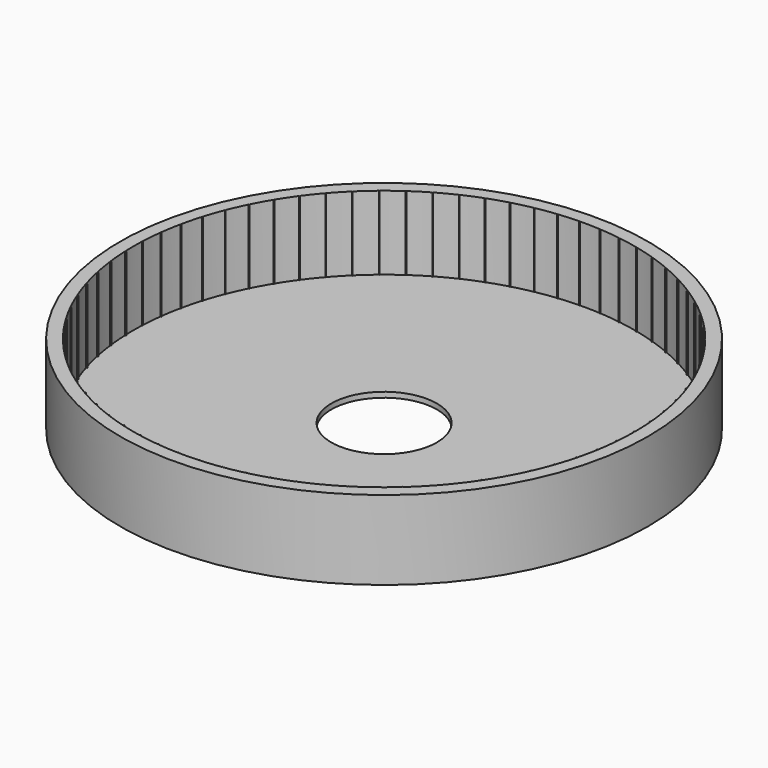
from build123d import *

# Parameters (mm, degrees)
F0_R     = 50
F1_DEPTH = 15
F0_R_2   = 10
F2_DEPTH = 1


with BuildPart() as f1:
    # F0 (on Top) → F1 (new body)
    with BuildSketch(Plane.XY):
        Circle(F0_R)
        with BuildLine():
            ThreePointArc((47.341674, 3.875039), (47.460402, 1.939136), (47.5, 0))
            ThreePointArc((47.5, 0), (47.499974, -0.05), (47.499895, -0.1))
            ThreePointArc((47.499895, -0.1), (47.456214, -2.039049), (47.333411, -3.974698))
            ThreePointArc((47.333411, -3.974698), (47.329201, -4.02452), (47.324938, -4.074338))
            ThreePointArc((47.324938, -4.074338), (47.119156, -6.002931), (46.834812, -7.921515))
            ThreePointArc((46.834812, -7.921515), (46.826447, -7.970811), (46.818031, -8.020098))
            ThreePointArc((46.818031, -8.020098), (46.45159, -9.924707), (46.0077, -11.81277))
            ThreePointArc((46.0077, -11.81277), (45.99524, -11.861192), (45.982729, -11.909602))
            ThreePointArc((45.982729, -11.909602), (45.458199, -13.776869), (44.857878, -15.621166))
            ThreePointArc((44.857878, -15.621166), (44.841409, -15.668376), (44.824892, -15.715569))
            ThreePointArc((44.824892, -15.715569), (44.145952, -17.532395), (43.393409, -19.319991))
            ThreePointArc((43.393409, -19.319991), (43.373048, -19.365657), (43.352639, -19.411302))
            ThreePointArc((43.352639, -19.411302), (42.524053, -21.164945), (41.624567, -22.8833))
            ThreePointArc((41.624567, -22.8833), (41.600457, -22.927102), (41.5763, -22.970879))
            ThreePointArc((41.5763, -22.970879), (40.603878, -24.649038), (39.563759, -26.286099))
            ThreePointArc((39.563759, -26.286099), (39.536067, -26.32773), (39.508332, -26.369332))
            ThreePointArc((39.508332, -26.369332), (38.398897, -27.960235), (37.225439, -29.50452))
            ThreePointArc((37.225439, -29.50452), (37.194361, -29.543688), (37.163242, -29.582824))
            ThreePointArc((37.163242, -29.582824), (35.924574, -31.075311), (34.62601, -32.515988))
            ThreePointArc((34.62601, -32.515988), (34.591763, -32.552418), (34.557478, -32.588812))
            ThreePointArc((34.557478, -32.588812), (33.198267, -33.972417), (31.783704, -35.299379))
            ThreePointArc((31.783704, -35.299379), (31.746529, -35.332816), (31.709319, -35.366214))
            ThreePointArc((31.709319, -35.366214), (30.239097, -36.63123), (28.718458, -37.835171))
            ThreePointArc((28.718458, -37.835171), (28.678616, -37.86538), (28.638741, -37.895547))
            ThreePointArc((28.638741, -37.895547), (27.067822, -39.033102), (25.451773, -40.105576))
            ThreePointArc((25.451773, -40.105576), (25.409542, -40.132346), (25.367284, -40.15907))
            ThreePointArc((25.367284, -40.15907), (23.706686, -41.161184), (22.006562, -42.09467))
            ThreePointArc((22.006562, -42.09467), (21.962239, -42.117812), (21.917893, -42.140906))
            ThreePointArc((21.917893, -42.140906), (20.179264, -43.00055), (18.40699, -43.7885))
            ThreePointArc((18.40699, -43.7885), (18.360887, -43.807851), (18.314763, -43.827154))
            ThreePointArc((18.314763, -43.827154), (16.510299, -44.538298), (14.678307, -45.175185))
            ThreePointArc((14.678307, -45.175185), (14.630746, -45.19061), (14.583169, -45.205986))
            ThreePointArc((14.583169, -45.205986), (12.725526, -45.763643), (10.846666, -46.244998))
            ThreePointArc((10.846666, -46.244998), (10.797981, -46.25639), (10.749284, -46.26773))
            ThreePointArc((10.749284, -46.26773), (8.851493, -46.667988), (6.938944, -46.990436))
            ThreePointArc((6.938944, -46.990436), (6.889476, -46.997714), (6.840001, -47.00494))
            ThreePointArc((6.840001, -47.00494), (4.915373, -47.24499), (2.98255, -47.40627))
            ThreePointArc((2.98255, -47.40627), (2.932647, -47.409383), (2.88274, -47.412444))
            ThreePointArc((2.88274, -47.412444), (0.944775, -47.490603), (-0.994765, -47.489582))
            ThreePointArc((-0.994765, -47.489582), (-1.044753, -47.488509), (-1.094741, -47.487383))
            ThreePointArc((-1.094741, -47.487383), (-3.032449, -47.403104), (-4.965102, -47.23979))
            ThreePointArc((-4.965102, -47.23979), (-5.014825, -47.234537), (-5.064543, -47.229232))
            ThreePointArc((-5.064543, -47.229232), (-6.988404, -46.983106), (-8.900612, -46.658644))
            ThreePointArc((-8.900612, -46.658644), (-8.949722, -46.649249), (-8.998821, -46.639803))
            ThreePointArc((-8.998821, -46.639803), (-10.895339, -46.233555), (-12.773691, -45.750222))
            ThreePointArc((-12.773691, -45.750222), (-12.821843, -45.736751), (-12.869979, -45.723229))
            ThreePointArc((-12.869979, -45.723229), (-14.725852, -45.159709), (-16.557172, -44.520895))
            ThreePointArc((-16.557172, -44.520895), (-16.604027, -44.503441), (-16.650864, -44.485939))
            ThreePointArc((-16.650864, -44.485939), (-18.453073, -43.7691), (-20.224516, -42.979285))
            ThreePointArc((-20.224516, -42.979285), (-20.269747, -42.957972), (-20.314954, -42.936612))
            ThreePointArc((-20.314954, -42.936612), (-22.05086, -42.071482), (-23.75, -41.136207))
            ThreePointArc((-23.75, -41.136207), (-23.793288, -41.111184), (-23.83655, -41.086116))
            ThreePointArc((-23.83655, -41.086116), (-25.493975, -40.078763), (-27.108894, -39.004587))
            ThreePointArc((-27.108894, -39.004587), (-27.149937, -38.97603), (-27.190949, -38.94743))
            ThreePointArc((-27.190949, -38.94743), (-28.758269, -37.80492), (-30.27764, -36.599379))
            ThreePointArc((-30.27764, -36.599379), (-30.316148, -36.567488), (-30.354624, -36.535556))
            ThreePointArc((-30.354624, -36.535556), (-31.820843, -35.265903), (-33.234009, -33.937452))
            ThreePointArc((-33.234009, -33.937452), (-33.269714, -33.90245), (-33.305382, -33.867411))
            ThreePointArc((-33.305382, -33.867411), (-34.660218, -32.479521), (-35.957265, -31.037479))
            ThreePointArc((-35.957265, -31.037479), (-35.989916, -30.999612), (-36.022528, -30.96171))
            ThreePointArc((-36.022528, -30.96171), (-37.256476, -29.465319), (-38.428307, -27.919799))
            ThreePointArc((-38.428307, -27.919799), (-38.457675, -27.879333), (-38.487001, -27.838836))
            ThreePointArc((-38.487001, -27.838836), (-39.591407, -26.244438), (-40.629802, -24.606283))
            ThreePointArc((-40.629802, -24.606283), (-40.655681, -24.563501), (-40.681515, -24.520692))
            ThreePointArc((-40.681515, -24.520692), (-41.648632, -22.839471), (-42.546309, -21.120171))
            ThreePointArc((-42.546309, -21.120171), (-42.568517, -21.075374), (-42.590678, -21.030553))
            ThreePointArc((-42.590678, -21.030553), (-43.413722, -19.274303), (-44.164383, -17.485916))
            ThreePointArc((-44.164383, -17.485916), (-44.182765, -17.439418), (-44.201098, -17.3929))
            ThreePointArc((-44.201098, -17.3929), (-44.874296, -15.573938), (-45.472676, -13.72901))
            ThreePointArc((-45.472676, -13.72901), (-45.487103, -13.681137), (-45.501479, -13.633248))
            ThreePointArc((-45.501479, -13.633248), (-46.020109, -11.764334), (-46.462011, -9.875805))
            ThreePointArc((-46.462011, -9.875805), (-46.472381, -9.826892), (-46.482699, -9.777969))
            ThreePointArc((-46.482699, -9.777969), (-46.843124, -7.872211), (-47.125448, -5.953329))
            ThreePointArc((-47.125448, -5.953329), (-47.131689, -5.90372), (-47.137877, -5.854104))
            ThreePointArc((-47.137877, -5.854104), (-47.337568, -3.924871), (-47.458334, -1.989094))
            ThreePointArc((-47.458334, -1.989094), (-47.460402, -1.939136), (-47.462417, -1.889177))
            ThreePointArc((-47.462417, -1.889177), (-47.499974, 0.05), (-47.458334, 1.989094))
            ThreePointArc((-47.458334, 1.989094), (-47.456214, 2.039049), (-47.454042, 2.089001))
            ThreePointArc((-47.454042, 2.089001), (-47.329201, 4.02452), (-47.125448, 5.953329))
            ThreePointArc((-47.125448, 5.953329), (-47.119156, 6.002931), (-47.112811, 6.052527))
            ThreePointArc((-47.112811, 6.052527), (-46.826447, 7.970811), (-46.462011, 9.875805))
            ThreePointArc((-46.462011, 9.875805), (-46.45159, 9.924707), (-46.441117, 9.973598))
            ThreePointArc((-46.441117, 9.973598), (-45.99524, 11.861192), (-45.472676, 13.72901))
            ThreePointArc((-45.472676, 13.72901), (-45.458199, 13.776869), (-45.443672, 13.824712))
            ThreePointArc((-45.443672, 13.824712), (-44.841409, 15.668376), (-44.164383, 17.485916))
            ThreePointArc((-44.164383, 17.485916), (-44.145952, 17.532395), (-44.127473, 17.578855))
            ThreePointArc((-44.127473, 17.578855), (-43.373048, 19.365657), (-42.546309, 21.120171))
            ThreePointArc((-42.546309, 21.120171), (-42.524053, 21.164945), (-42.501751, 21.209695))
            ThreePointArc((-42.501751, 21.209695), (-41.600457, 22.927102), (-40.629802, 24.606283))
            ThreePointArc((-40.629802, 24.606283), (-40.603878, 24.649038), (-40.57791, 24.691765))
            ThreePointArc((-40.57791, 24.691765), (-39.536067, 26.32773), (-38.428307, 27.919799))
            ThreePointArc((-38.428307, 27.919799), (-38.398897, 27.960235), (-38.369444, 28.000639))
            ThreePointArc((-38.369444, 28.000639), (-37.194361, 29.543688), (-35.957265, 31.037479))
            ThreePointArc((-35.957265, 31.037479), (-35.924574, 31.075311), (-35.891843, 31.113109))
            ThreePointArc((-35.891843, 31.113109), (-34.591763, 32.552418), (-33.234009, 33.937452))
            ThreePointArc((-33.234009, 33.937452), (-33.198267, 33.972417), (-33.162488, 34.007343))
            ThreePointArc((-33.162488, 34.007343), (-31.746529, 35.332816), (-30.27764, 36.599379))
            ThreePointArc((-30.27764, 36.599379), (-30.239097, 36.63123), (-30.200521, 36.66304))
            ThreePointArc((-30.200521, 36.66304), (-28.678616, 37.86538), (-27.108894, 39.004587))
            ThreePointArc((-27.108894, 39.004587), (-27.067822, 39.033102), (-27.026719, 39.061572))
            ThreePointArc((-27.026719, 39.061572), (-25.409542, 40.132346), (-23.75, 41.136207))
            ThreePointArc((-23.75, 41.136207), (-23.706686, 41.161184), (-23.663345, 41.186116))
            ThreePointArc((-23.663345, 41.186116), (-21.962239, 42.117812), (-20.224516, 42.979285))
            ThreePointArc((-20.224516, 42.979285), (-20.179264, 43.00055), (-20.133989, 43.021768))
            ThreePointArc((-20.133989, 43.021768), (-18.360887, 43.807851), (-16.557172, 44.520895))
            ThreePointArc((-16.557172, 44.520895), (-16.510299, 44.538298), (-16.463407, 44.555653))
            ThreePointArc((-16.463407, 44.555653), (-14.630746, 45.19061), (-12.773691, 45.750222))
            ThreePointArc((-12.773691, 45.750222), (-12.725526, 45.763643), (-12.677347, 45.777013))
            ThreePointArc((-12.677347, 45.777013), (-10.797981, 46.25639), (-8.900612, 46.658644))
            ThreePointArc((-8.900612, 46.658644), (-8.851493, 46.667988), (-8.802364, 46.677279))
            ThreePointArc((-8.802364, 46.677279), (-6.889476, 46.997714), (-4.965102, 47.23979))
            ThreePointArc((-4.965102, 47.23979), (-4.915373, 47.24499), (-4.865639, 47.250138))
            ThreePointArc((-4.865639, 47.250138), (-2.932647, 47.409383), (-0.994765, 47.489582))
            ThreePointArc((-0.994765, 47.489582), (-0.944775, 47.490603), (-0.894785, 47.491571))
            ThreePointArc((-0.894785, 47.491571), (1.044753, 47.488509), (2.98255, 47.40627))
            ThreePointArc((2.98255, 47.40627), (3.032449, 47.403104), (3.082346, 47.399885))
            ThreePointArc((3.082346, 47.399885), (5.014825, 47.234537), (6.938944, 46.990436))
            ThreePointArc((6.938944, 46.990436), (6.988404, 46.983106), (7.037856, 46.975723))
            ThreePointArc((7.037856, 46.975723), (8.949722, 46.649249), (10.846666, 46.244998))
            ThreePointArc((10.846666, 46.244998), (10.895339, 46.233555), (10.944, 46.22206))
            ThreePointArc((10.944, 46.22206), (12.821843, 45.736751), (14.678307, 45.175185))
            ThreePointArc((14.678307, 45.175185), (14.725852, 45.159709), (14.77338, 45.144183))
            ThreePointArc((14.77338, 45.144183), (16.604027, 44.503441), (18.40699, 43.7885))
            ThreePointArc((18.40699, 43.7885), (18.453073, 43.7691), (18.499136, 43.749651))
            ThreePointArc((18.499136, 43.749651), (20.269747, 42.957972), (22.006562, 42.09467))
            ThreePointArc((22.006562, 42.09467), (22.05086, 42.071482), (22.095133, 42.048247))
            ThreePointArc((22.095133, 42.048247), (23.793288, 41.111184), (25.451773, 40.105576))
            ThreePointArc((25.451773, 40.105576), (25.493975, 40.078763), (25.536149, 40.051905))
            ThreePointArc((25.536149, 40.051905), (27.149937, 38.97603), (28.718458, 37.835171))
            ThreePointArc((28.718458, 37.835171), (28.758269, 37.80492), (28.798047, 37.774627))
            ThreePointArc((28.798047, 37.774627), (30.316148, 36.567488), (31.783704, 35.299379))
            ThreePointArc((31.783704, 35.299379), (31.820843, 35.265903), (31.857948, 35.232388))
            ThreePointArc((31.857948, 35.232388), (33.269714, 33.90245), (34.62601, 32.515988))
            ThreePointArc((34.62601, 32.515988), (34.660218, 32.479521), (34.694388, 32.443019))
            ThreePointArc((34.694388, 32.443019), (35.989916, 30.999612), (37.225439, 29.50452))
            ThreePointArc((37.225439, 29.50452), (37.256476, 29.465319), (37.287472, 29.426085))
            ThreePointArc((37.287472, 29.426085), (38.457675, 27.879333), (39.563759, 26.286099))
            ThreePointArc((39.563759, 26.286099), (39.591407, 26.244438), (39.61901, 26.202748))
            ThreePointArc((39.61901, 26.202748), (40.655681, 24.563501), (41.624567, 22.8833))
            ThreePointArc((41.624567, 22.8833), (41.648632, 22.839471), (41.67265, 22.795618))
            ThreePointArc((41.67265, 22.795618), (42.568517, 21.075374), (43.393409, 19.319991))
            ThreePointArc((43.393409, 19.319991), (43.413722, 19.274303), (43.433987, 19.228593))
            ThreePointArc((43.433987, 19.228593), (44.182765, 17.439418), (44.857878, 15.621166))
            ThreePointArc((44.857878, 15.621166), (44.874296, 15.573938), (44.890665, 15.526693))
            ThreePointArc((44.890665, 15.526693), (45.487103, 13.681137), (46.0077, 11.81277))
            ThreePointArc((46.0077, 11.81277), (46.020109, 11.764334), (46.032467, 11.715885))
            ThreePointArc((46.032467, 11.715885), (46.472381, 9.826892), (46.834812, 7.921515))
            ThreePointArc((46.834812, 7.921515), (46.843124, 7.872211), (46.851385, 7.822898))
            ThreePointArc((46.851385, 7.822898), (47.131689, 5.90372), (47.333411, 3.974698))
            ThreePointArc((47.333411, 3.974698), (47.337568, 3.924871), (47.341674, 3.875039))
        make_face(mode=Mode.SUBTRACT)
        with BuildLine():
            ThreePointArc((-46.482699, -9.777969), (-46.472381, -9.826892), (-46.462011, -9.875805))
            Line((-46.462011, -9.875805), (-46.276777, -9.785316))
            Line((-46.276777, -9.785316), (-46.482699, -9.777969))
        make_face()
        with BuildLine():
            ThreePointArc((45.982729, -11.909602), (45.99524, -11.861192), (46.0077, -11.81277))
            Line((46.0077, -11.81277), (45.801549, -11.811461))
            Line((45.801549, -11.811461), (45.982729, -11.909602))
        make_face()
        with BuildLine():
            ThreePointArc((-40.681515, -24.520692), (-40.655681, -24.563501), (-40.629802, -24.606283))
            Line((-40.629802, -24.606283), (-40.484631, -24.459909))
            Line((-40.484631, -24.459909), (-40.681515, -24.520692))
        make_face()
        with BuildLine():
            Line((31.687035, 35.117294), (31.857948, 35.232388))
            ThreePointArc((31.857948, 35.232388), (31.820843, 35.265903), (31.783704, 35.299379))
            Line((31.783704, 35.299379), (31.687035, 35.117294))
        make_face()
        with BuildLine():
            Line((-26.953694, 38.868893), (-27.026719, 39.061572))
            ThreePointArc((-27.026719, 39.061572), (-27.067822, 39.033102), (-27.108894, 39.004587))
            Line((-27.108894, 39.004587), (-26.953694, 38.868893))
        make_face()
        with BuildLine():
            ThreePointArc((-1.094741, -47.487383), (-1.044753, -47.488509), (-0.994765, -47.489582))
            Line((-0.994765, -47.489582), (-1.040565, -47.288579))
            Line((-1.040565, -47.288579), (-1.094741, -47.487383))
        make_face()
        with BuildLine():
            Line((-47.256416, 2.030675), (-47.454042, 2.089001))
            ThreePointArc((-47.454042, 2.089001), (-47.456214, 2.039049), (-47.458334, 1.989094))
            Line((-47.458334, 1.989094), (-47.256416, 2.030675))
        make_face()
        with BuildLine():
            Line((-43.960022, 17.45878), (-44.127473, 17.578855))
            ThreePointArc((-44.127473, 17.578855), (-44.145952, 17.532395), (-44.164383, 17.485916))
            Line((-44.164383, 17.485916), (-43.960022, 17.45878))
        make_face()
        with BuildLine():
            ThreePointArc((-27.190949, -38.94743), (-27.149937, -38.97603), (-27.108894, -39.004587))
            Line((-27.108894, -39.004587), (-27.035809, -38.811822))
            Line((-27.035809, -38.811822), (-27.190949, -38.94743))
        make_face()
        with BuildLine():
            ThreePointArc((14.583169, -45.205986), (14.630746, -45.19061), (14.678307, -45.175185))
            Line((14.678307, -45.175185), (14.568951, -45.000424))
            Line((14.568951, -45.000424), (14.583169, -45.205986))
        make_face()
        with BuildLine():
            Line((-33.058352, 33.829541), (-33.162488, 34.007343))
            ThreePointArc((-33.162488, 34.007343), (-33.198267, 33.972417), (-33.234009, 33.937452))
            Line((-33.234009, 33.937452), (-33.058352, 33.829541))
        make_face()
        with BuildLine():
            Line((-16.440594, 44.350867), (-16.463407, 44.555653))
            ThreePointArc((-16.463407, 44.555653), (-16.510299, 44.538298), (-16.557172, 44.520895))
            Line((-16.557172, 44.520895), (-16.440594, 44.350867))
        make_face()
        with BuildLine():
            Line((45.826418, 11.714603), (46.032467, 11.715885))
            ThreePointArc((46.032467, 11.715885), (46.020109, 11.764334), (46.0077, 11.81277))
            Line((46.0077, 11.81277), (45.826418, 11.714603))
        make_face()
        with BuildLine():
            ThreePointArc((44.824892, -15.715569), (44.841409, -15.668376), (44.857878, -15.621166))
            Line((44.857878, -15.621166), (44.652559, -15.602611))
            Line((44.652559, -15.602611), (44.824892, -15.715569))
        make_face()
        with BuildLine():
            Line((-12.671749, 45.571035), (-12.677347, 45.777013))
            ThreePointArc((-12.677347, 45.777013), (-12.725526, 45.763643), (-12.773691, 45.750222))
            Line((-12.773691, 45.750222), (-12.671749, 45.571035))
        make_face()
        with BuildLine():
            Line((46.645951, 7.838862), (46.851385, 7.822898))
            ThreePointArc((46.851385, 7.822898), (46.843124, 7.872211), (46.834812, 7.921515))
            Line((46.834812, 7.921515), (46.645951, 7.838862))
        make_face()
        with BuildLine():
            Line((-20.094119, 42.819609), (-20.133989, 43.021768))
            ThreePointArc((-20.133989, 43.021768), (-20.179264, 43.00055), (-20.224516, 42.979285))
            Line((-20.224516, 42.979285), (-20.094119, 42.819609))
        make_face()
        with BuildLine():
            Line((47.138296, 3.908137), (47.341674, 3.875039))
            ThreePointArc((47.341674, 3.875039), (47.337568, 3.924871), (47.333411, 3.974698))
            Line((47.333411, 3.974698), (47.138296, 3.908137))
        make_face()
        with BuildLine():
            ThreePointArc((-5.064543, -47.229232), (-5.014825, -47.234537), (-4.965102, -47.23979))
            Line((-4.965102, -47.23979), (-4.993922, -47.035659))
            Line((-4.993922, -47.035659), (-5.064543, -47.229232))
        make_face()
        with BuildLine():
            ThreePointArc((31.709319, -35.366214), (31.746529, -35.332816), (31.783704, -35.299379))
            Line((31.783704, -35.299379), (31.61272, -35.184207))
            Line((31.61272, -35.184207), (31.709319, -35.366214))
        make_face()
        with BuildLine():
            Line((6.959191, 46.785277), (7.037856, 46.975723))
            ThreePointArc((7.037856, 46.975723), (6.988404, 46.983106), (6.938944, 46.990436))
            Line((6.938944, 46.990436), (6.959191, 46.785277))
        make_face()
        with BuildLine():
            Line((-40.432828, 24.545446), (-40.57791, 24.691765))
            ThreePointArc((-40.57791, 24.691765), (-40.603878, 24.649038), (-40.629802, 24.606283))
            Line((-40.629802, 24.606283), (-40.432828, 24.545446))
        make_face()
        with BuildLine():
            ThreePointArc((2.88274, -47.412444), (2.932647, -47.409383), (2.98255, -47.40627))
            Line((2.98255, -47.40627), (2.92009, -47.209804))
            Line((2.92009, -47.209804), (2.88274, -47.412444))
        make_face()
        with BuildLine():
            Line((-23.606699, 40.988002), (-23.663345, 41.186116))
            ThreePointArc((-23.663345, 41.186116), (-23.706686, 41.161184), (-23.75, 41.136207))
            Line((-23.75, 41.136207), (-23.606699, 40.988002))
        make_face()
        with BuildLine():
            ThreePointArc((47.324938, -4.074338), (47.329201, -4.02452), (47.333411, -3.974698))
            Line((47.333411, -3.974698), (47.129928, -4.007787))
            Line((47.129928, -4.007787), (47.324938, -4.074338))
        make_face()
        with BuildLine():
            ThreePointArc((25.367284, -40.15907), (25.409542, -40.132346), (25.451773, -40.105576))
            Line((25.451773, -40.105576), (25.302391, -39.963502))
            Line((25.302391, -39.963502), (25.367284, -40.15907))
        make_face()
        with BuildLine():
            ThreePointArc((-33.305382, -33.867411), (-33.269714, -33.90245), (-33.234009, -33.937452))
            Line((-33.234009, -33.937452), (-33.1298, -33.759575))
            Line((-33.1298, -33.759575), (-33.305382, -33.867411))
        make_face()
        with BuildLine():
            Line((-38.237115, 27.842693), (-38.369444, 28.000639))
            ThreePointArc((-38.369444, 28.000639), (-38.398897, 27.960235), (-38.428307, 27.919799))
            Line((-38.428307, 27.919799), (-38.237115, 27.842693))
        make_face()
        with BuildLine():
            Line((25.386824, 39.90992), (25.536149, 40.051905))
            ThreePointArc((25.536149, 40.051905), (25.493975, 40.078763), (25.451773, 40.105576))
            Line((25.451773, 40.105576), (25.386824, 39.90992))
        make_face()
        with BuildLine():
            Line((28.637365, 37.645635), (28.798047, 37.774627))
            ThreePointArc((28.798047, 37.774627), (28.758269, 37.80492), (28.718458, 37.835171))
            Line((28.718458, 37.835171), (28.637365, 37.645635))
        make_face()
        with BuildLine():
            Line((34.514443, 32.34263), (34.694388, 32.443019))
            ThreePointArc((34.694388, 32.443019), (34.660218, 32.479521), (34.62601, 32.515988))
            Line((34.62601, 32.515988), (34.514443, 32.34263))
        make_face()
        with BuildLine():
            ThreePointArc((21.917893, -42.140906), (21.962239, -42.117812), (22.006562, -42.09467))
            Line((22.006562, -42.09467), (21.869592, -41.940594))
            Line((21.869592, -41.940594), (21.917893, -42.140906))
        make_face()
        with BuildLine():
            Line((-46.255986, 9.88313), (-46.441117, 9.973598))
            ThreePointArc((-46.441117, 9.973598), (-46.45159, 9.924707), (-46.462011, 9.875805))
            Line((-46.462011, 9.875805), (-46.255986, 9.88313))
        make_face()
        with BuildLine():
            ThreePointArc((46.818031, -8.020098), (46.826447, -7.970811), (46.834812, -7.921515))
            Line((46.834812, -7.921515), (46.629274, -7.937462))
            Line((46.629274, -7.937462), (46.818031, -8.020098))
        make_face()
        with BuildLine():
            ThreePointArc((47.499895, -0.1), (47.499974, -0.05), (47.5, 0))
            Line((47.5, 0), (47.3, -0.05))
            Line((47.3, -0.05), (47.499895, -0.1))
        make_face()
        with BuildLine():
            ThreePointArc((-20.314954, -42.936612), (-20.269747, -42.957972), (-20.224516, -42.979285))
            Line((-20.224516, -42.979285), (-20.184602, -42.777031))
            Line((-20.184602, -42.777031), (-20.314954, -42.936612))
        make_face()
        with BuildLine():
            Line((18.37558, 43.584751), (18.499136, 43.749651))
            ThreePointArc((18.499136, 43.749651), (18.453073, 43.7691), (18.40699, 43.7885))
            Line((18.40699, 43.7885), (18.37558, 43.584751))
        make_face()
        with BuildLine():
            ThreePointArc((37.163242, -29.582824), (37.194361, -29.543688), (37.225439, -29.50452))
            Line((37.225439, -29.50452), (37.037643, -29.419475))
            Line((37.037643, -29.419475), (37.163242, -29.582824))
        make_face()
        with BuildLine():
            Line((21.958213, 41.894264), (22.095133, 42.048247))
            ThreePointArc((22.095133, 42.048247), (22.05086, 42.071482), (22.006562, 42.09467))
            Line((22.006562, 42.09467), (21.958213, 41.894264))
        make_face()
        with BuildLine():
            ThreePointArc((6.840001, -47.00494), (6.889476, -46.997714), (6.938944, -46.990436))
            Line((6.938944, -46.990436), (6.860264, -46.799886))
            Line((6.860264, -46.799886), (6.840001, -47.00494))
        make_face()
        with BuildLine():
            Line((41.473394, 22.743133), (41.67265, 22.795618))
            ThreePointArc((41.67265, 22.795618), (41.648632, 22.839471), (41.624567, 22.8833))
            Line((41.624567, 22.8833), (41.473394, 22.743133))
        make_face()
        with BuildLine():
            Line((-35.773195, 30.944644), (-35.891843, 31.113109))
            ThreePointArc((-35.891843, 31.113109), (-35.924574, 31.075311), (-35.957265, 31.037479))
            Line((-35.957265, 31.037479), (-35.773195, 30.944644))
        make_face()
        with BuildLine():
            Line((-30.111629, 36.477148), (-30.200521, 36.66304))
            ThreePointArc((-30.200521, 36.66304), (-30.239097, 36.63123), (-30.27764, 36.599379))
            Line((-30.27764, 36.599379), (-30.111629, 36.477148))
        make_face()
        with BuildLine():
            ThreePointArc((-42.590678, -21.030553), (-42.568517, -21.075374), (-42.546309, -21.120171))
            Line((-42.546309, -21.120171), (-42.389398, -20.986458))
            Line((-42.389398, -20.986458), (-42.590678, -21.030553))
        make_face()
        with BuildLine():
            ThreePointArc((10.749284, -46.26773), (10.797981, -46.25639), (10.846666, -46.244998))
            Line((10.846666, -46.244998), (10.752317, -46.0617))
            Line((10.752317, -46.0617), (10.749284, -46.26773))
        make_face()
        with BuildLine():
            Line((-42.344935, 21.07603), (-42.501751, 21.209695))
            ThreePointArc((-42.501751, 21.209695), (-42.524053, 21.164945), (-42.546309, 21.120171))
            Line((-42.546309, 21.120171), (-42.344935, 21.07603))
        make_face()
        with BuildLine():
            Line((39.424844, 26.133774), (39.61901, 26.202748))
            ThreePointArc((39.61901, 26.202748), (39.591407, 26.244438), (39.563759, 26.286099))
            Line((39.563759, 26.286099), (39.424844, 26.133774))
        make_face()
        with BuildLine():
            Line((37.099758, 29.341105), (37.287472, 29.426085))
            ThreePointArc((37.287472, 29.426085), (37.256476, 29.465319), (37.225439, 29.50452))
            Line((37.225439, 29.50452), (37.099758, 29.341105))
        make_face()
        with BuildLine():
            ThreePointArc((-30.354624, -36.535556), (-30.316148, -36.567488), (-30.27764, -36.599379))
            Line((-30.27764, -36.599379), (-30.18868, -36.413405))
            Line((-30.18868, -36.413405), (-30.354624, -36.535556))
        make_face()
        with BuildLine():
            ThreePointArc((-47.462417, -1.889177), (-47.460402, -1.939136), (-47.458334, -1.989094))
            Line((-47.458334, -1.989094), (-47.260604, -1.930762))
            Line((-47.260604, -1.930762), (-47.462417, -1.889177))
        make_face()
        with BuildLine():
            ThreePointArc((-47.137877, -5.854104), (-47.131689, -5.90372), (-47.125448, -5.953329))
            Line((-47.125448, -5.953329), (-46.933292, -5.878656))
            Line((-46.933292, -5.878656), (-47.137877, -5.854104))
        make_face()
        with BuildLine():
            Line((10.849675, 46.038865), (10.944, 46.22206))
            ThreePointArc((10.944, 46.22206), (10.895339, 46.233555), (10.846666, 46.244998))
            Line((10.846666, 46.244998), (10.849675, 46.038865))
        make_face()
        with BuildLine():
            Line((-0.940587, 47.290673), (-0.894785, 47.491571))
            ThreePointArc((-0.894785, 47.491571), (-0.944775, 47.490603), (-0.994765, 47.489582))
            Line((-0.994765, 47.489582), (-0.940587, 47.290673))
        make_face()
        with BuildLine():
            Line((14.664057, 44.969522), (14.77338, 45.144183))
            ThreePointArc((14.77338, 45.144183), (14.725852, 45.159709), (14.678307, 45.175185))
            Line((14.678307, 45.175185), (14.664057, 44.969522))
        make_face()
        with BuildLine():
            Line((3.019893, 47.203525), (3.082346, 47.399885))
            ThreePointArc((3.082346, 47.399885), (3.032449, 47.403104), (2.98255, 47.40627))
            Line((2.98255, 47.40627), (3.019893, 47.203525))
        make_face()
        with BuildLine():
            ThreePointArc((34.557478, -32.588812), (34.591763, -32.552418), (34.62601, -32.515988))
            Line((34.62601, -32.515988), (34.445989, -32.415527))
            Line((34.445989, -32.415527), (34.557478, -32.588812))
        make_face()
        with BuildLine():
            ThreePointArc((-23.83655, -41.086116), (-23.793288, -41.111184), (-23.75, -41.136207))
            Line((-23.75, -41.136207), (-23.693301, -40.938002))
            Line((-23.693301, -40.938002), (-23.83655, -41.086116))
        make_face()
        with BuildLine():
            Line((-45.266761, 13.71907), (-45.443672, 13.824712))
            ThreePointArc((-45.443672, 13.824712), (-45.458199, 13.776869), (-45.472676, 13.72901))
            Line((-45.472676, 13.72901), (-45.266761, 13.71907))
        make_face()
        with BuildLine():
            Line((-4.89447, 47.046112), (-4.865639, 47.250138))
            ThreePointArc((-4.865639, 47.250138), (-4.915373, 47.24499), (-4.965102, 47.23979))
            Line((-4.965102, 47.23979), (-4.89447, 47.046112))
        make_face()
        with BuildLine():
            ThreePointArc((39.508332, -26.369332), (39.536067, -26.32773), (39.563759, -26.286099))
            Line((39.563759, -26.286099), (39.369505, -26.217066))
            Line((39.369505, -26.217066), (39.508332, -26.369332))
        make_face()
        with BuildLine():
            ThreePointArc((-16.650864, -44.485939), (-16.604027, -44.503441), (-16.557172, -44.520895))
            Line((-16.557172, -44.520895), (-16.534322, -44.31601))
            Line((-16.534322, -44.31601), (-16.650864, -44.485939))
        make_face()
        with BuildLine():
            Line((-46.920759, 5.977868), (-47.112811, 6.052527))
            ThreePointArc((-47.112811, 6.052527), (-47.119156, 6.002931), (-47.125448, 5.953329))
            Line((-47.125448, 5.953329), (-46.920759, 5.977868))
        make_face()
        with BuildLine():
            ThreePointArc((43.352639, -19.411302), (43.373048, -19.365657), (43.393409, -19.319991))
            Line((43.393409, -19.319991), (43.190363, -19.28432))
            Line((43.190363, -19.28432), (43.352639, -19.411302))
        make_face()
        with BuildLine():
            Line((-8.814022, 46.471556), (-8.802364, 46.677279))
            ThreePointArc((-8.802364, 46.677279), (-8.851493, 46.667988), (-8.900612, 46.658644))
            Line((-8.900612, 46.658644), (-8.814022, 46.471556))
        make_face()
        with BuildLine():
            ThreePointArc((41.5763, -22.970879), (41.600457, -22.927102), (41.624567, -22.8833))
            Line((41.624567, -22.8833), (41.425218, -22.830764))
            Line((41.425218, -22.830764), (41.5763, -22.970879))
        make_face()
        with BuildLine():
            ThreePointArc((-12.869979, -45.723229), (-12.821843, -45.736751), (-12.773691, -45.750222))
            Line((-12.773691, -45.750222), (-12.768066, -45.544143))
            Line((-12.768066, -45.544143), (-12.869979, -45.723229))
        make_face()
        with BuildLine():
            ThreePointArc((-8.998821, -46.639803), (-8.949722, -46.649249), (-8.900612, -46.658644))
            Line((-8.900612, -46.658644), (-8.912251, -46.452818))
            Line((-8.912251, -46.452818), (-8.998821, -46.639803))
        make_face()
        with BuildLine():
            ThreePointArc((28.638741, -37.895547), (28.678616, -37.86538), (28.718458, -37.835171))
            Line((28.718458, -37.835171), (28.557712, -37.706095))
            Line((28.557712, -37.706095), (28.638741, -37.895547))
        make_face()
        with BuildLine():
            ThreePointArc((-36.022528, -30.96171), (-35.989916, -30.999612), (-35.957265, -31.037479))
            Line((-35.957265, -31.037479), (-35.838537, -30.868945))
            Line((-35.838537, -30.868945), (-36.022528, -30.96171))
        make_face()
        with BuildLine():
            ThreePointArc((-38.487001, -27.838836), (-38.457675, -27.879333), (-38.428307, -27.919799))
            Line((-38.428307, -27.919799), (-38.295893, -27.761792))
            Line((-38.295893, -27.761792), (-38.487001, -27.838836))
        make_face()
        with BuildLine():
            Line((43.231037, 19.192966), (43.433987, 19.228593))
            ThreePointArc((43.433987, 19.228593), (43.413722, 19.274303), (43.393409, 19.319991))
            Line((43.393409, 19.319991), (43.231037, 19.192966))
        make_face()
        with BuildLine():
            ThreePointArc((18.314763, -43.827154), (18.360887, -43.807851), (18.40699, -43.7885))
            Line((18.40699, -43.7885), (18.283394, -43.623503))
            Line((18.283394, -43.623503), (18.314763, -43.827154))
        make_face()
        with BuildLine():
            Line((44.685446, 15.508174), (44.890665, 15.526693))
            ThreePointArc((44.890665, 15.526693), (44.874296, 15.573938), (44.857878, 15.621166))
            Line((44.857878, 15.621166), (44.685446, 15.508174))
        make_face()
        with BuildLine():
            ThreePointArc((-45.501479, -13.633248), (-45.487103, -13.681137), (-45.472676, -13.72901))
            Line((-45.472676, -13.72901), (-45.295664, -13.623338))
            Line((-45.295664, -13.623338), (-45.501479, -13.633248))
        make_face()
        with BuildLine():
            ThreePointArc((-44.201098, -17.3929), (-44.182765, -17.439418), (-44.164383, -17.485916))
            Line((-44.164383, -17.485916), (-43.996834, -17.365803))
            Line((-43.996834, -17.365803), (-44.201098, -17.3929))
        make_face()
    extrude(amount=F1_DEPTH)

    # F0 (on Top) → F2 (join)
    with BuildSketch(Plane.XY):
        with BuildLine():
            Line((47.3, -0.05), (47.5, 0))
            ThreePointArc((47.5, 0), (47.460402, 1.939136), (47.341674, 3.875039))
            Line((47.341674, 3.875039), (47.138296, 3.908137))
            Line((47.138296, 3.908137), (47.333411, 3.974698))
            ThreePointArc((47.333411, 3.974698), (47.131689, 5.90372), (46.851385, 7.822898))
            Line((46.851385, 7.822898), (46.645951, 7.838862))
            Line((46.645951, 7.838862), (46.834812, 7.921515))
            ThreePointArc((46.834812, 7.921515), (46.472381, 9.826892), (46.032467, 11.715885))
            Line((46.032467, 11.715885), (45.826418, 11.714603))
            Line((45.826418, 11.714603), (46.0077, 11.81277))
            ThreePointArc((46.0077, 11.81277), (45.487103, 13.681137), (44.890665, 15.526693))
            Line((44.890665, 15.526693), (44.685446, 15.508174))
            Line((44.685446, 15.508174), (44.857878, 15.621166))
            ThreePointArc((44.857878, 15.621166), (44.182765, 17.439418), (43.433987, 19.228593))
            Line((43.433987, 19.228593), (43.231037, 19.192966))
            Line((43.231037, 19.192966), (43.393409, 19.319991))
            ThreePointArc((43.393409, 19.319991), (42.568517, 21.075374), (41.67265, 22.795618))
            Line((41.67265, 22.795618), (41.473394, 22.743133))
            Line((41.473394, 22.743133), (41.624567, 22.8833))
            ThreePointArc((41.624567, 22.8833), (40.655681, 24.563501), (39.61901, 26.202748))
            Line((39.61901, 26.202748), (39.424844, 26.133774))
            Line((39.424844, 26.133774), (39.563759, 26.286099))
            ThreePointArc((39.563759, 26.286099), (38.457675, 27.879333), (37.287472, 29.426085))
            Line((37.287472, 29.426085), (37.099758, 29.341105))
            Line((37.099758, 29.341105), (37.225439, 29.50452))
            ThreePointArc((37.225439, 29.50452), (35.989916, 30.999612), (34.694388, 32.443019))
            Line((34.694388, 32.443019), (34.514443, 32.34263))
            Line((34.514443, 32.34263), (34.62601, 32.515988))
            ThreePointArc((34.62601, 32.515988), (33.269714, 33.90245), (31.857948, 35.232388))
            Line((31.857948, 35.232388), (31.687035, 35.117294))
            Line((31.687035, 35.117294), (31.783704, 35.299379))
            ThreePointArc((31.783704, 35.299379), (30.316148, 36.567488), (28.798047, 37.774627))
            Line((28.798047, 37.774627), (28.637365, 37.645635))
            Line((28.637365, 37.645635), (28.718458, 37.835171))
            ThreePointArc((28.718458, 37.835171), (27.149937, 38.97603), (25.536149, 40.051905))
            Line((25.536149, 40.051905), (25.386824, 39.90992))
            Line((25.386824, 39.90992), (25.451773, 40.105576))
            ThreePointArc((25.451773, 40.105576), (23.793288, 41.111184), (22.095133, 42.048247))
            Line((22.095133, 42.048247), (21.958213, 41.894264))
            Line((21.958213, 41.894264), (22.006562, 42.09467))
            ThreePointArc((22.006562, 42.09467), (20.269747, 42.957972), (18.499136, 43.749651))
            Line((18.499136, 43.749651), (18.37558, 43.584751))
            Line((18.37558, 43.584751), (18.40699, 43.7885))
            ThreePointArc((18.40699, 43.7885), (16.604027, 44.503441), (14.77338, 45.144183))
            Line((14.77338, 45.144183), (14.664057, 44.969522))
            Line((14.664057, 44.969522), (14.678307, 45.175185))
            ThreePointArc((14.678307, 45.175185), (12.821843, 45.736751), (10.944, 46.22206))
            Line((10.944, 46.22206), (10.849675, 46.038865))
            Line((10.849675, 46.038865), (10.846666, 46.244998))
            ThreePointArc((10.846666, 46.244998), (8.949722, 46.649249), (7.037856, 46.975723))
            Line((7.037856, 46.975723), (6.959191, 46.785277))
            Line((6.959191, 46.785277), (6.938944, 46.990436))
            ThreePointArc((6.938944, 46.990436), (5.014825, 47.234537), (3.082346, 47.399885))
            Line((3.082346, 47.399885), (3.019893, 47.203525))
            Line((3.019893, 47.203525), (2.98255, 47.40627))
            ThreePointArc((2.98255, 47.40627), (1.044753, 47.488509), (-0.894785, 47.491571))
            Line((-0.894785, 47.491571), (-0.940587, 47.290673))
            Line((-0.940587, 47.290673), (-0.994765, 47.489582))
            ThreePointArc((-0.994765, 47.489582), (-2.932647, 47.409383), (-4.865639, 47.250138))
            Line((-4.865639, 47.250138), (-4.89447, 47.046112))
            Line((-4.89447, 47.046112), (-4.965102, 47.23979))
            ThreePointArc((-4.965102, 47.23979), (-6.889476, 46.997714), (-8.802364, 46.677279))
            Line((-8.802364, 46.677279), (-8.814022, 46.471556))
            Line((-8.814022, 46.471556), (-8.900612, 46.658644))
            ThreePointArc((-8.900612, 46.658644), (-10.797981, 46.25639), (-12.677347, 45.777013))
            Line((-12.677347, 45.777013), (-12.671749, 45.571035))
            Line((-12.671749, 45.571035), (-12.773691, 45.750222))
            ThreePointArc((-12.773691, 45.750222), (-14.630746, 45.19061), (-16.463407, 44.555653))
            Line((-16.463407, 44.555653), (-16.440594, 44.350867))
            Line((-16.440594, 44.350867), (-16.557172, 44.520895))
            ThreePointArc((-16.557172, 44.520895), (-18.360887, 43.807851), (-20.133989, 43.021768))
            Line((-20.133989, 43.021768), (-20.094119, 42.819609))
            Line((-20.094119, 42.819609), (-20.224516, 42.979285))
            ThreePointArc((-20.224516, 42.979285), (-21.962239, 42.117812), (-23.663345, 41.186116))
            Line((-23.663345, 41.186116), (-23.606699, 40.988002))
            Line((-23.606699, 40.988002), (-23.75, 41.136207))
            ThreePointArc((-23.75, 41.136207), (-25.409542, 40.132346), (-27.026719, 39.061572))
            Line((-27.026719, 39.061572), (-26.953694, 38.868893))
            Line((-26.953694, 38.868893), (-27.108894, 39.004587))
            ThreePointArc((-27.108894, 39.004587), (-28.678616, 37.86538), (-30.200521, 36.66304))
            Line((-30.200521, 36.66304), (-30.111629, 36.477148))
            Line((-30.111629, 36.477148), (-30.27764, 36.599379))
            ThreePointArc((-30.27764, 36.599379), (-31.746529, 35.332816), (-33.162488, 34.007343))
            Line((-33.162488, 34.007343), (-33.058352, 33.829541))
            Line((-33.058352, 33.829541), (-33.234009, 33.937452))
            ThreePointArc((-33.234009, 33.937452), (-34.591763, 32.552418), (-35.891843, 31.113109))
            Line((-35.891843, 31.113109), (-35.773195, 30.944644))
            Line((-35.773195, 30.944644), (-35.957265, 31.037479))
            ThreePointArc((-35.957265, 31.037479), (-37.194361, 29.543688), (-38.369444, 28.000639))
            Line((-38.369444, 28.000639), (-38.237115, 27.842693))
            Line((-38.237115, 27.842693), (-38.428307, 27.919799))
            ThreePointArc((-38.428307, 27.919799), (-39.536067, 26.32773), (-40.57791, 24.691765))
            Line((-40.57791, 24.691765), (-40.432828, 24.545446))
            Line((-40.432828, 24.545446), (-40.629802, 24.606283))
            ThreePointArc((-40.629802, 24.606283), (-41.600457, 22.927102), (-42.501751, 21.209695))
            Line((-42.501751, 21.209695), (-42.344935, 21.07603))
            Line((-42.344935, 21.07603), (-42.546309, 21.120171))
            ThreePointArc((-42.546309, 21.120171), (-43.373048, 19.365657), (-44.127473, 17.578855))
            Line((-44.127473, 17.578855), (-43.960022, 17.45878))
            Line((-43.960022, 17.45878), (-44.164383, 17.485916))
            ThreePointArc((-44.164383, 17.485916), (-44.841409, 15.668376), (-45.443672, 13.824712))
            Line((-45.443672, 13.824712), (-45.266761, 13.71907))
            Line((-45.266761, 13.71907), (-45.472676, 13.72901))
            ThreePointArc((-45.472676, 13.72901), (-45.99524, 11.861192), (-46.441117, 9.973598))
            Line((-46.441117, 9.973598), (-46.255986, 9.88313))
            Line((-46.255986, 9.88313), (-46.462011, 9.875805))
            ThreePointArc((-46.462011, 9.875805), (-46.826447, 7.970811), (-47.112811, 6.052527))
            Line((-47.112811, 6.052527), (-46.920759, 5.977868))
            Line((-46.920759, 5.977868), (-47.125448, 5.953329))
            ThreePointArc((-47.125448, 5.953329), (-47.329201, 4.02452), (-47.454042, 2.089001))
            Line((-47.454042, 2.089001), (-47.256416, 2.030675))
            Line((-47.256416, 2.030675), (-47.458334, 1.989094))
            ThreePointArc((-47.458334, 1.989094), (-47.499974, 0.05), (-47.462417, -1.889177))
            Line((-47.462417, -1.889177), (-47.260604, -1.930762))
            Line((-47.260604, -1.930762), (-47.458334, -1.989094))
            ThreePointArc((-47.458334, -1.989094), (-47.337568, -3.924871), (-47.137877, -5.854104))
            Line((-47.137877, -5.854104), (-46.933292, -5.878656))
            Line((-46.933292, -5.878656), (-47.125448, -5.953329))
            ThreePointArc((-47.125448, -5.953329), (-46.843124, -7.872211), (-46.482699, -9.777969))
            Line((-46.482699, -9.777969), (-46.276777, -9.785316))
            Line((-46.276777, -9.785316), (-46.462011, -9.875805))
            ThreePointArc((-46.462011, -9.875805), (-46.020109, -11.764334), (-45.501479, -13.633248))
            Line((-45.501479, -13.633248), (-45.295664, -13.623338))
            Line((-45.295664, -13.623338), (-45.472676, -13.72901))
            ThreePointArc((-45.472676, -13.72901), (-44.874296, -15.573938), (-44.201098, -17.3929))
            Line((-44.201098, -17.3929), (-43.996834, -17.365803))
            Line((-43.996834, -17.365803), (-44.164383, -17.485916))
            ThreePointArc((-44.164383, -17.485916), (-43.413722, -19.274303), (-42.590678, -21.030553))
            Line((-42.590678, -21.030553), (-42.389398, -20.986458))
            Line((-42.389398, -20.986458), (-42.546309, -21.120171))
            ThreePointArc((-42.546309, -21.120171), (-41.648632, -22.839471), (-40.681515, -24.520692))
            Line((-40.681515, -24.520692), (-40.484631, -24.459909))
            Line((-40.484631, -24.459909), (-40.629802, -24.606283))
            ThreePointArc((-40.629802, -24.606283), (-39.591407, -26.244438), (-38.487001, -27.838836))
            Line((-38.487001, -27.838836), (-38.295893, -27.761792))
            Line((-38.295893, -27.761792), (-38.428307, -27.919799))
            ThreePointArc((-38.428307, -27.919799), (-37.256476, -29.465319), (-36.022528, -30.96171))
            Line((-36.022528, -30.96171), (-35.838537, -30.868945))
            Line((-35.838537, -30.868945), (-35.957265, -31.037479))
            ThreePointArc((-35.957265, -31.037479), (-34.660218, -32.479521), (-33.305382, -33.867411))
            Line((-33.305382, -33.867411), (-33.1298, -33.759575))
            Line((-33.1298, -33.759575), (-33.234009, -33.937452))
            ThreePointArc((-33.234009, -33.937452), (-31.820843, -35.265903), (-30.354624, -36.535556))
            Line((-30.354624, -36.535556), (-30.18868, -36.413405))
            Line((-30.18868, -36.413405), (-30.27764, -36.599379))
            ThreePointArc((-30.27764, -36.599379), (-28.758269, -37.80492), (-27.190949, -38.94743))
            Line((-27.190949, -38.94743), (-27.035809, -38.811822))
            Line((-27.035809, -38.811822), (-27.108894, -39.004587))
            ThreePointArc((-27.108894, -39.004587), (-25.493975, -40.078763), (-23.83655, -41.086116))
            Line((-23.83655, -41.086116), (-23.693301, -40.938002))
            Line((-23.693301, -40.938002), (-23.75, -41.136207))
            ThreePointArc((-23.75, -41.136207), (-22.05086, -42.071482), (-20.314954, -42.936612))
            Line((-20.314954, -42.936612), (-20.184602, -42.777031))
            Line((-20.184602, -42.777031), (-20.224516, -42.979285))
            ThreePointArc((-20.224516, -42.979285), (-18.453073, -43.7691), (-16.650864, -44.485939))
            Line((-16.650864, -44.485939), (-16.534322, -44.31601))
            Line((-16.534322, -44.31601), (-16.557172, -44.520895))
            ThreePointArc((-16.557172, -44.520895), (-14.725852, -45.159709), (-12.869979, -45.723229))
            Line((-12.869979, -45.723229), (-12.768066, -45.544143))
            Line((-12.768066, -45.544143), (-12.773691, -45.750222))
            ThreePointArc((-12.773691, -45.750222), (-10.895339, -46.233555), (-8.998821, -46.639803))
            Line((-8.998821, -46.639803), (-8.912251, -46.452818))
            Line((-8.912251, -46.452818), (-8.900612, -46.658644))
            ThreePointArc((-8.900612, -46.658644), (-6.988404, -46.983106), (-5.064543, -47.229232))
            Line((-5.064543, -47.229232), (-4.993922, -47.035659))
            Line((-4.993922, -47.035659), (-4.965102, -47.23979))
            ThreePointArc((-4.965102, -47.23979), (-3.032449, -47.403104), (-1.094741, -47.487383))
            Line((-1.094741, -47.487383), (-1.040565, -47.288579))
            Line((-1.040565, -47.288579), (-0.994765, -47.489582))
            ThreePointArc((-0.994765, -47.489582), (0.944775, -47.490603), (2.88274, -47.412444))
            Line((2.88274, -47.412444), (2.92009, -47.209804))
            Line((2.92009, -47.209804), (2.98255, -47.40627))
            ThreePointArc((2.98255, -47.40627), (4.915373, -47.24499), (6.840001, -47.00494))
            Line((6.840001, -47.00494), (6.860264, -46.799886))
            Line((6.860264, -46.799886), (6.938944, -46.990436))
            ThreePointArc((6.938944, -46.990436), (8.851493, -46.667988), (10.749284, -46.26773))
            Line((10.749284, -46.26773), (10.752317, -46.0617))
            Line((10.752317, -46.0617), (10.846666, -46.244998))
            ThreePointArc((10.846666, -46.244998), (12.725526, -45.763643), (14.583169, -45.205986))
            Line((14.583169, -45.205986), (14.568951, -45.000424))
            Line((14.568951, -45.000424), (14.678307, -45.175185))
            ThreePointArc((14.678307, -45.175185), (16.510299, -44.538298), (18.314763, -43.827154))
            Line((18.314763, -43.827154), (18.283394, -43.623503))
            Line((18.283394, -43.623503), (18.40699, -43.7885))
            ThreePointArc((18.40699, -43.7885), (20.179264, -43.00055), (21.917893, -42.140906))
            Line((21.917893, -42.140906), (21.869592, -41.940594))
            Line((21.869592, -41.940594), (22.006562, -42.09467))
            ThreePointArc((22.006562, -42.09467), (23.706686, -41.161184), (25.367284, -40.15907))
            Line((25.367284, -40.15907), (25.302391, -39.963502))
            Line((25.302391, -39.963502), (25.451773, -40.105576))
            ThreePointArc((25.451773, -40.105576), (27.067822, -39.033102), (28.638741, -37.895547))
            Line((28.638741, -37.895547), (28.557712, -37.706095))
            Line((28.557712, -37.706095), (28.718458, -37.835171))
            ThreePointArc((28.718458, -37.835171), (30.239097, -36.63123), (31.709319, -35.366214))
            Line((31.709319, -35.366214), (31.61272, -35.184207))
            Line((31.61272, -35.184207), (31.783704, -35.299379))
            ThreePointArc((31.783704, -35.299379), (33.198267, -33.972417), (34.557478, -32.588812))
            Line((34.557478, -32.588812), (34.445989, -32.415527))
            Line((34.445989, -32.415527), (34.62601, -32.515988))
            ThreePointArc((34.62601, -32.515988), (35.924574, -31.075311), (37.163242, -29.582824))
            Line((37.163242, -29.582824), (37.037643, -29.419475))
            Line((37.037643, -29.419475), (37.225439, -29.50452))
            ThreePointArc((37.225439, -29.50452), (38.398897, -27.960235), (39.508332, -26.369332))
            Line((39.508332, -26.369332), (39.369505, -26.217066))
            Line((39.369505, -26.217066), (39.563759, -26.286099))
            ThreePointArc((39.563759, -26.286099), (40.603878, -24.649038), (41.5763, -22.970879))
            Line((41.5763, -22.970879), (41.425218, -22.830764))
            Line((41.425218, -22.830764), (41.624567, -22.8833))
            ThreePointArc((41.624567, -22.8833), (42.524053, -21.164945), (43.352639, -19.411302))
            Line((43.352639, -19.411302), (43.190363, -19.28432))
            Line((43.190363, -19.28432), (43.393409, -19.319991))
            ThreePointArc((43.393409, -19.319991), (44.145952, -17.532395), (44.824892, -15.715569))
            Line((44.824892, -15.715569), (44.652559, -15.602611))
            Line((44.652559, -15.602611), (44.857878, -15.621166))
            ThreePointArc((44.857878, -15.621166), (45.458199, -13.776869), (45.982729, -11.909602))
            Line((45.982729, -11.909602), (45.801549, -11.811461))
            Line((45.801549, -11.811461), (46.0077, -11.81277))
            ThreePointArc((46.0077, -11.81277), (46.45159, -9.924707), (46.818031, -8.020098))
            Line((46.818031, -8.020098), (46.629274, -7.937462))
            Line((46.629274, -7.937462), (46.834812, -7.921515))
            ThreePointArc((46.834812, -7.921515), (47.119156, -6.002931), (47.324938, -4.074338))
            Line((47.324938, -4.074338), (47.129928, -4.007787))
            Line((47.129928, -4.007787), (47.333411, -3.974698))
            ThreePointArc((47.333411, -3.974698), (47.456214, -2.039049), (47.499895, -0.1))
            Line((47.499895, -0.1), (47.3, -0.05))
        make_face()
        Circle(F0_R_2, mode=Mode.SUBTRACT)
    extrude(amount=F2_DEPTH)


solid = f1.part
